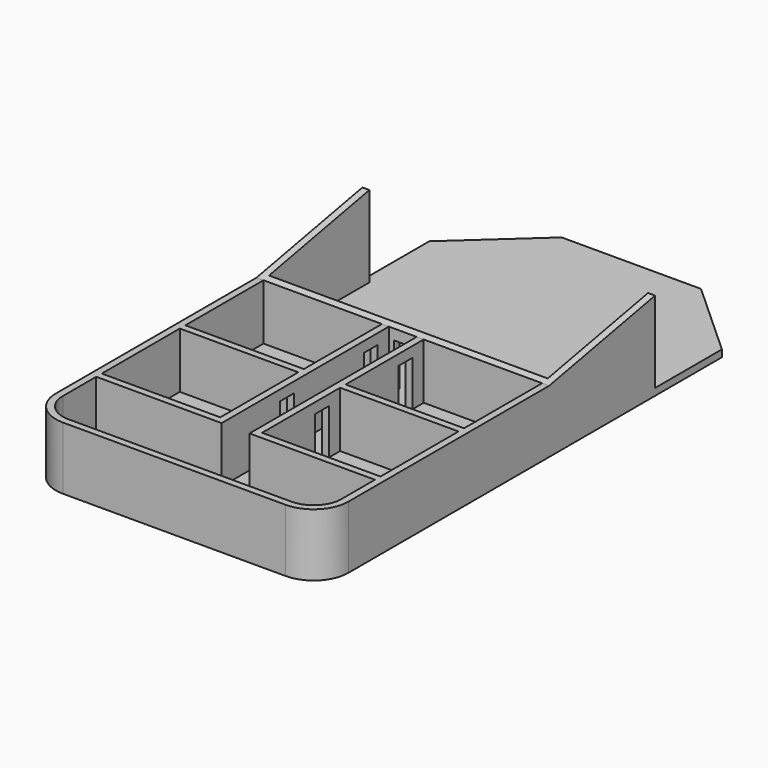
from build123d import *

# Parameters (mm, degrees)
F1_DEPTH  = 381
F3_W      = 1016
F3_H      = 457.2
F3_W_2    = 431.8
F3_H_2    = 355.6
F4_DEPTH  = 355.6
F5_DEPTH  = 1270
F6_W      = 63.5
F6_H      = 165.1
F7_DEPTH  = 25.4
F8_W      = 63.5
F8_H      = 165.1
F9_DEPTH  = 25.4
F10_W     = 63.5
F10_H     = 165.1
F11_DEPTH = 127
F12_W     = 127
F12_H     = 177.8
F13_DEPTH = 25.4
F14_W     = 1493.888004
F14_H     = 593.896151
F15_DEPTH = 355.601


with BuildPart() as f1:
    # F0 (on Top) → F1 (new body)
    with BuildSketch(Plane.XY):
        with BuildLine():
            Line((254, 1041.4), (-254, 1041.4))
            Line((-254, 1041.4), (-533.4, 787.4))
            Line((-533.4, 787.4), (-533.4, -914.4))
            ThreePointArc((-533.4, -914.4), (-496.202561, -1004.202561), (-406.4, -1041.4))
            Line((-406.4, -1041.4), (406.4, -1041.4))
            ThreePointArc((406.4, -1041.4), (496.202561, -1004.202561), (533.4, -914.4))
            Line((533.4, -914.4), (533.4, 787.4))
            Line((533.4, 787.4), (254, 1041.4))
        make_face()
    extrude(amount=F1_DEPTH)

    # F3 (on face) → F4 (cut)
    with BuildSketch(Plane.XY.offset(381)):
        with Locations((0, 254)):
            Rectangle(F3_W, F3_H)
        Polygon((-244.180185, 1016), (-508, 776.163805), (-508, 508), (508, 508), (508, 776.163805), (244.180185, 1016), align=None)
        with Locations((-292.1, -177.8)):
            Rectangle(F3_W_2, F3_H_2)
        with Locations((292.1, -177.8)):
            Rectangle(F3_W_2, F3_H_2)
        with Locations((292.1, -558.8)):
            Rectangle(F3_W_2, F3_H_2)
        with Locations((-292.1, -558.8)):
            Rectangle(F3_W_2, F3_H_2)
        with BuildLine():
            Line((50.8, 0), (-50.8, 0))
            Line((-50.8, 0), (-50.8, -381))
            Line((-50.8, -381), (-50.8, -762))
            Line((-50.8, -762), (-508, -762))
            Line((-508, -762), (-508, -914.4))
            ThreePointArc((-508, -914.4), (-478.242049, -986.242049), (-406.4, -1016))
            Line((-406.4, -1016), (406.4, -1016))
            ThreePointArc((406.4, -1016), (478.242049, -986.242049), (508, -914.4))
            Line((508, -914.4), (508, -762))
            Line((508, -762), (50.8, -762))
            Line((50.8, -762), (50.8, -381))
            Line((50.8, -381), (50.8, 0))
        make_face()
    extrude(amount=-F4_DEPTH, mode=Mode.SUBTRACT)

    # F2 (on Right) → F5 (cut, symmetric)
    with BuildSketch(Plane.YZ):
        Polygon((-1041.4, 381), (-1041.4, 228.6), (0, 228.6), (787.4, 381), align=None)
    extrude(amount=F5_DEPTH, both=True, mode=Mode.SUBTRACT)

    # F6 (on face) → F7 (cut, through all)
    with BuildSketch(Plane.XZ.offset(-482.6)):
        with Locations((0, 107.95)):
            Rectangle(F6_W, F6_H)
    extrude(amount=-F7_DEPTH, mode=Mode.SUBTRACT)

    # F8 (on face) → F9 (cut, through all)
    with BuildSketch(Plane.XZ):
        with Locations((0, 107.95)):
            Rectangle(F8_W, F8_H)
    extrude(amount=-F9_DEPTH, mode=Mode.SUBTRACT)

    # F10 (on Right) → F11 (cut, symmetric)
    with BuildSketch(Plane.YZ):
        with Locations((-82.55, 107.95)):
            Rectangle(F10_W, F10_H)
        with Locations((-463.55, 107.95)):
            Rectangle(F10_W, F10_H)
    extrude(amount=F11_DEPTH, both=True, mode=Mode.SUBTRACT)

    # F12 (on face) → F13 (cut)
    with BuildSketch(Plane(origin=(0, 1041.4, 0), x_dir=(-1, 0, 0), z_dir=(0, 1, 0))):
        with Locations((0, 114.3)):
            Rectangle(F12_W, F12_H)
        with BuildLine():
            Line((-63.5, 203.2), (63.5, 203.2))
            ThreePointArc((63.5, 203.2), (0, 266.7), (-63.5, 203.2))
        make_face()
    extrude(amount=-F13_DEPTH, mode=Mode.SUBTRACT)

    # F14 (on face) → F15 (cut, through all)
    with BuildSketch(Plane.XY.offset(25.4)):
        with Locations((0, 779.548075)):
            Rectangle(F14_W, F14_H)
    extrude(amount=F15_DEPTH, mode=Mode.SUBTRACT)


solid = f1.part
